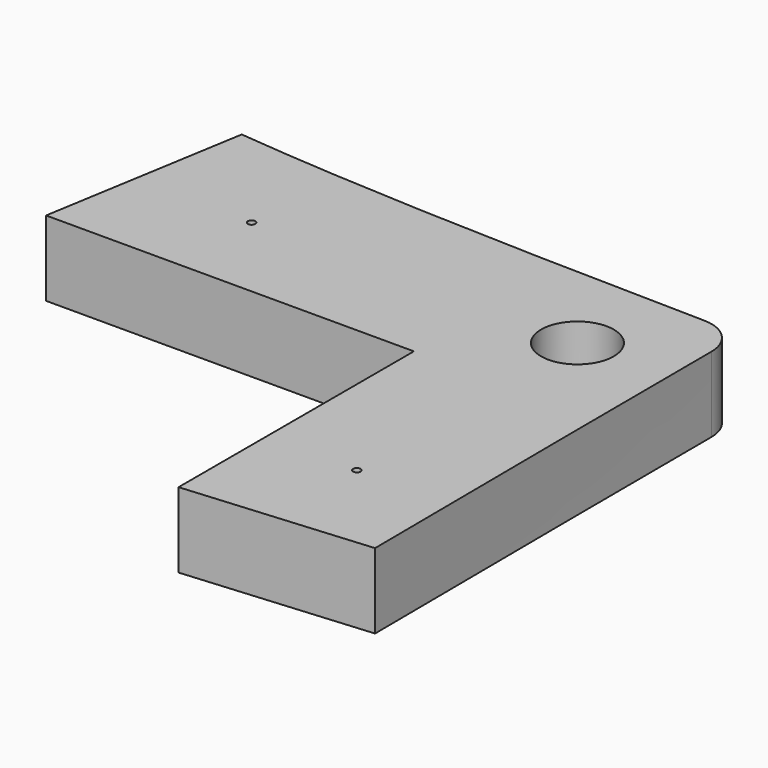
from build123d import *

# Parameters (mm, degrees)
SKETCH055_R     = 1.45
PAD014_DEPTH    = 3
SKETCH060_R     = 0.15
POCKET028_DEPTH = 22
FILLET012_R     = 1.5


with BuildPart() as part:
    # Sketch055 → Pad014 (new body)
    with BuildSketch(Plane.XY):
        with BuildLine():
            add(Edge.make_bspline(
                [(150.875, 88.9625), (142.177266, 89.087472), (135.460331, 89.269548), (130.29585, 89.7876)],
                knots=[0, 0, 0, 0, 1, 1, 1, 1], degree=3))
            Line((130.29585, 89.7876), (128.95, 81.7125))
            Line((128.95, 81.7125), (143.625, 81.7125))
            Line((143.625, 81.7125), (143.625, 69.975))
            Line((143.625, 69.975), (150.975266, 70.587522))
            add(Edge.make_bspline(
                [(150.875, 88.9625), (150.875, 82.6662), (150.975266, 70.587522)],
                knots=[0, 0, 0, 1, 1, 1], degree=2))
        make_face()
        with Locations((147.25, 85.3375)):
            Circle(SKETCH055_R, mode=Mode.SUBTRACT)
    extrude(amount=PAD014_DEPTH)

    # Sketch060 → Pocket028 (cut)
    with BuildSketch(Plane.XY):
        with Locations((134.25, 85.3375)):
            Circle(SKETCH060_R)
        with Locations((147.25, 74.3375)):
            Circle(SKETCH060_R)
    extrude(amount=POCKET028_DEPTH, mode=Mode.SUBTRACT)

    # Fillet012
    fillet012_edges = [part.edges().sort_by_distance(p)[0] for p in [
        (150.875, 88.9625, 1.5),
    ]]
    fillet(fillet012_edges, radius=FILLET012_R)


with BuildPart() as part_1:
    # Body013 placement: moved
    add(part.part.moved(Location((0, 0, -6))))


solid = part_1.part
